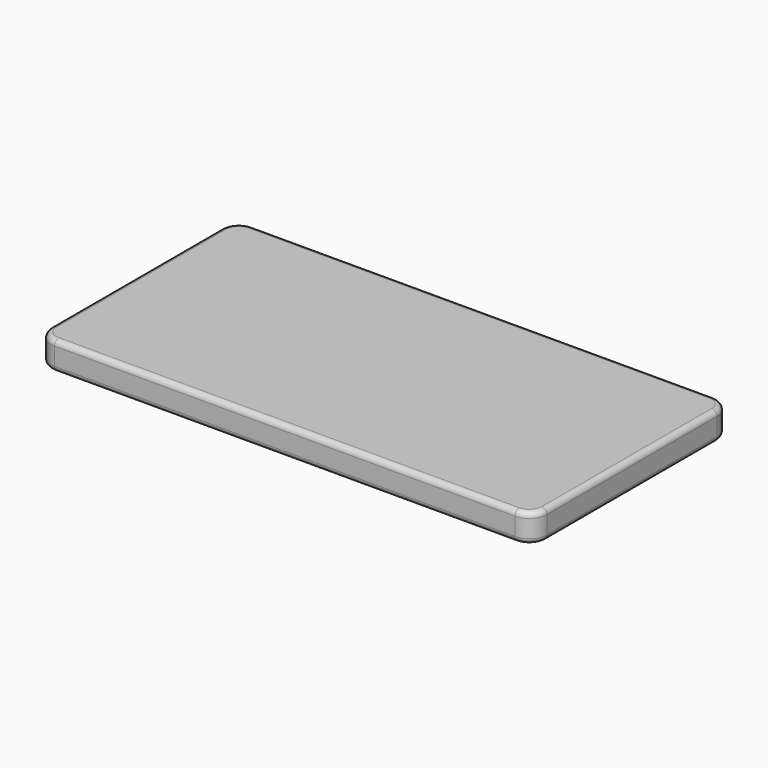
from build123d import *

# Parameters (mm, degrees)
F1_DEPTH = 8
F3_R     = 1.5
F4_R     = 1.5


with BuildPart() as f1:
    # F0 (on Top) → F1 (new body)
    with BuildSketch(Plane.XY):
        with BuildLine():
            Line((77.627857, 35.706591), (-52.372143, 35.706591))
            ThreePointArc((-52.372143, 35.706591), (-55.907677, 34.242125), (-57.372143, 30.706591))
            Line((-57.372143, 30.706591), (-57.372143, -29.293409))
            ThreePointArc((-57.372143, -29.293409), (-55.907677, -32.828943), (-52.372143, -34.293409))
            Line((-52.372143, -34.293409), (77.627857, -34.293409))
            ThreePointArc((77.627857, -34.293409), (81.163391, -32.828943), (82.627857, -29.293409))
            Line((82.627857, -29.293409), (82.627857, 30.706591))
            ThreePointArc((82.627857, 30.706591), (81.163391, 34.242125), (77.627857, 35.706591))
        make_face()
    extrude(amount=F1_DEPTH)

    # F3
    f3_edges = [f1.edges().sort_by_distance(p)[0] for p in [
        (82.627857, 0.706591, 8),
        (81.163391, 34.242125, 8),
        (12.627857, 35.706591, 8),
        (-55.907677, 34.242125, 8),
        (-57.372143, 0.706591, 8),
        (-55.907677, -32.828943, 8),
        (12.627857, -34.293409, 8),
        (81.163391, -32.828943, 8),
    ]]
    fillet(f3_edges, radius=F3_R)

    # F4
    f4_edges = [f1.edges().sort_by_distance(p)[0] for p in [
        (82.627857, 0.706591, 0),
        (81.163391, 34.242125, 0),
        (12.627857, 35.706591, 0),
        (-55.907677, 34.242125, 0),
        (-57.372143, 0.706591, 0),
        (-55.907677, -32.828943, 0),
        (12.627857, -34.293409, 0),
        (81.163391, -32.828943, 0),
    ]]
    fillet(f4_edges, radius=F4_R)


solid = f1.part
